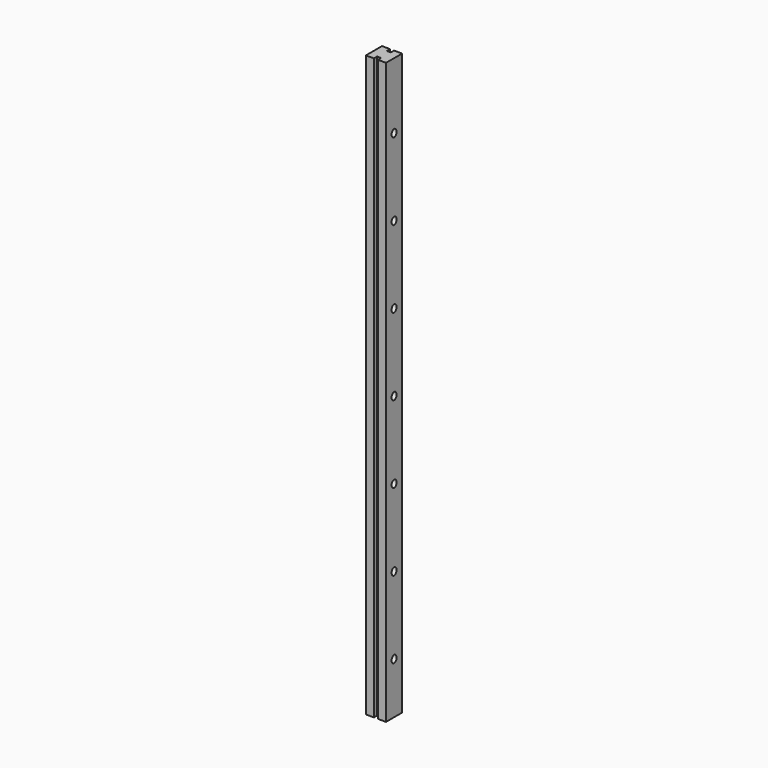
from build123d import *

# Parameters (mm, degrees)
F1_DEPTH = 914.4
F3_R     = 4.8895
F4_DEPTH = 528.955316


with BuildPart() as f1:
    # F0 (on Top) → F1 (new body)
    with BuildSketch(Plane.XY):
        Polygon((3.175, -15.875), (15.875, -15.875), (15.875, 15.875), (3.175, 15.875), (3.175, 9.525), (-3.175, 9.525), (-3.175, 15.875), (-15.875, 15.875), (-15.875, -15.875), (-3.175, -15.875), (-3.175, -9.525), (3.175, -9.525), align=None)
    extrude(amount=F1_DEPTH)

    # F3 (on face) → F4 (cut, through all)
    with BuildSketch(Plane(origin=(-430.869562, 0, 283.35146), x_dir=(0, 1, 0), z_dir=(0.83552, 0, -0.54946))):
        with Locations((0, 787.4)):
            Circle(F3_R)
        with Locations((0, 685.8)):
            Circle(F3_R)
        with Locations((0, 584.2)):
            Circle(F3_R)
        with Locations((0, 482.6)):
            Circle(F3_R)
        with Locations((0, 381)):
            Circle(F3_R)
        with Locations((0, 279.4)):
            Circle(F3_R)
        with Locations((0, 177.8)):
            Circle(F3_R)
        with Locations((0, 76.2)):
            Circle(F3_R)
    extrude(amount=F4_DEPTH, mode=Mode.SUBTRACT)


solid = f1.part
